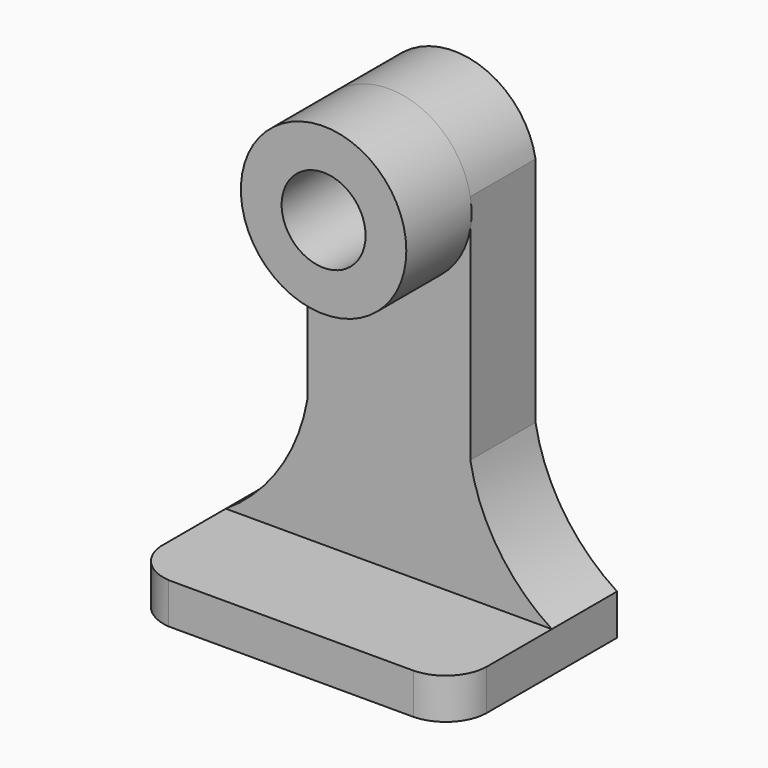
from build123d import *

# Parameters (mm, degrees)
F0_W      = 50.8
F0_H      = 6.35
F1_DEPTH  = 31.75
F2_W      = 50.8
F2_H      = 69.85
F3_DEPTH  = 12.7
F4_W      = 12.7
F4_H      = 69.85
F5_DEPTH  = 25.4
F7_DEPTH  = 12.7
F9_DEPTH  = 12.701
F10_R     = 12.888436
F11_DEPTH = 12.7
F12_R     = 6.538436
F13_DEPTH = 25.401
F15_DEPTH = 25.4
F17_DEPTH = 25.4


with BuildPart() as f1:
    # F0 (on Front) → F1 (new body)
    with BuildSketch(Plane.XZ):
        with Locations((-40.683051, 3.175)):
            Rectangle(F0_W, F0_H)
    extrude(amount=F1_DEPTH)

    # F2 (on face) → F3 (join)
    with BuildSketch(Plane(origin=(0, 0, 0), x_dir=(-1, 0, 0), z_dir=(0, 1, 0))):
        with Locations((40.683051, 41.275)):
            Rectangle(F2_W, F2_H)
    extrude(amount=-F3_DEPTH)

    # F4 (on face) → F5 (cut)
    with BuildSketch(Plane.XZ.offset(12.7)):
        with Locations((-59.733051, 41.275)):
            Rectangle(F4_W, F4_H)
        with Locations((-21.633051, 41.275)):
            Rectangle(F4_W, F4_H)
    extrude(amount=-F5_DEPTH, mode=Mode.SUBTRACT)

    # F6 (on face) → F7 (join)
    with BuildSketch(Plane(origin=(0, 0, 0), x_dir=(-1, 0, 0), z_dir=(0, 1, 0))):
        with BuildLine():
            ThreePointArc((27.983051, 25.4), (23.619413, 14.550759), (15.283051, 6.35))
            Line((15.283051, 6.35), (27.983051, 6.35))
            Line((27.983051, 6.35), (27.983051, 25.4))
        make_face()
        with BuildLine():
            Line((53.383051, 6.35), (66.083051, 6.35))
            ThreePointArc((66.083051, 6.35), (57.741785, 14.547489), (53.383051, 25.4))
            Line((53.383051, 25.4), (53.383051, 6.35))
        make_face()
    extrude(amount=-F7_DEPTH)

    # F8 (on face) → F9 (cut, through all)
    with BuildSketch(Plane.XZ.offset(12.7)):
        with BuildLine():
            ThreePointArc((-53.383051, 61.541711), (-40.683051, 72.234292), (-27.983051, 61.541711))
            Line((-27.983051, 61.541711), (-27.983051, 76.2))
            Line((-27.983051, 76.2), (-53.383051, 76.2))
            Line((-53.383051, 76.2), (-53.383051, 61.541711))
        make_face()
    extrude(amount=-F9_DEPTH, mode=Mode.SUBTRACT)

    # F10 (on face) → F11 (join)
    with BuildSketch(Plane.XZ.offset(12.7)):
        with Locations((-40.683051, 59.345856)):
            Circle(F10_R)
    extrude(amount=F11_DEPTH)

    # F12 (on face) → F13 (cut, through all)
    with BuildSketch(Plane.XZ.offset(25.4)):
        with Locations((-40.683051, 59.345856)):
            Circle(F12_R)
    extrude(amount=-F13_DEPTH, mode=Mode.SUBTRACT)

    # F14 (on face) → F15 (cut)
    with BuildSketch(Plane.XY.offset(6.35)):
        with BuildLine():
            ThreePointArc((-15.283051, -25.4), (-17.173864, -29.859187), (-21.633051, -31.75))
            Line((-21.633051, -31.75), (-15.283051, -31.75))
            Line((-15.283051, -31.75), (-15.283051, -25.4))
        make_face()
    extrude(amount=-F15_DEPTH, mode=Mode.SUBTRACT)

    # F16 (on face) → F17 (cut)
    with BuildSketch(Plane.XY.offset(6.35)):
        with BuildLine():
            ThreePointArc((-59.733051, -31.75), (-64.062729, -29.729678), (-66.083051, -25.4))
            Line((-66.083051, -25.4), (-66.083051, -31.75))
            Line((-66.083051, -31.75), (-59.733051, -31.75))
        make_face()
    extrude(amount=-F17_DEPTH, mode=Mode.SUBTRACT)


solid = f1.part
